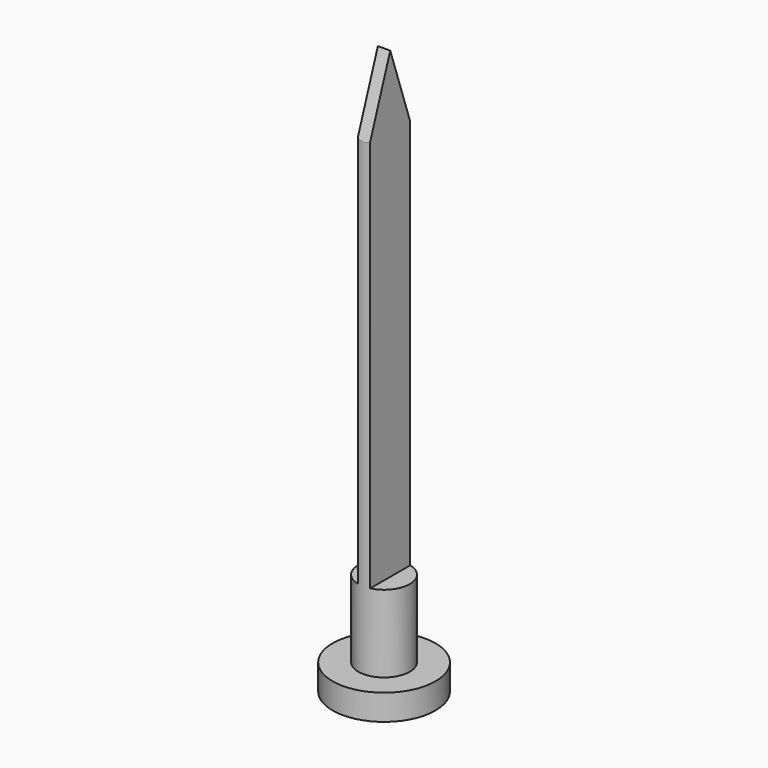
from build123d import *

# Parameters (mm, degrees)
F0_R     = 5
F1_DEPTH = 125
F2_W     = 7.022222
F2_H     = 110
F3_DEPTH = 12.5
F6_DEPTH = 12.5
F0_R_2   = 10
F8_DEPTH = 5


with BuildPart() as f1:
    # F0 (on Top) → F1 (new body)
    with BuildSketch(Plane.XY):
        Circle(F0_R)
    extrude(amount=F1_DEPTH)


with BuildPart() as f3:
    # F2 (on Front) → F3 (new body, symmetric)
    with BuildSketch(Plane.XZ):
        with Locations((-4.711111, 75)):
            Rectangle(F2_W, F2_H)
        with Locations((4.711111, 75)):
            Rectangle(F2_W, F2_H)
    extrude(amount=F3_DEPTH, both=True)


with BuildPart() as f1_1:
    add(f1.part)

    # F4: cut F3
    add(f3.part, mode=Mode.SUBTRACT)


with BuildPart() as f6:
    # F5 (on Right) → F6 (new body, symmetric)
    with BuildSketch(Plane.YZ):
        Polygon((32.54493, 130), (-35.225107, 130), (-35.607988, 80), (-10.720685, 80), (0, 110), (10.337801, 80), (32.54493, 80), align=None)
    extrude(amount=F6_DEPTH, both=True)


with BuildPart() as f1_2:
    add(f1_1.part)

    # F7: cut F6
    add(f6.part, mode=Mode.SUBTRACT)

    # F0 (on Top) → F8 (join)
    with BuildSketch(Plane.XY):
        Circle(F0_R_2)
        Circle(F0_R, mode=Mode.SUBTRACT)
    extrude(amount=F8_DEPTH)


solid = f1_2.part
